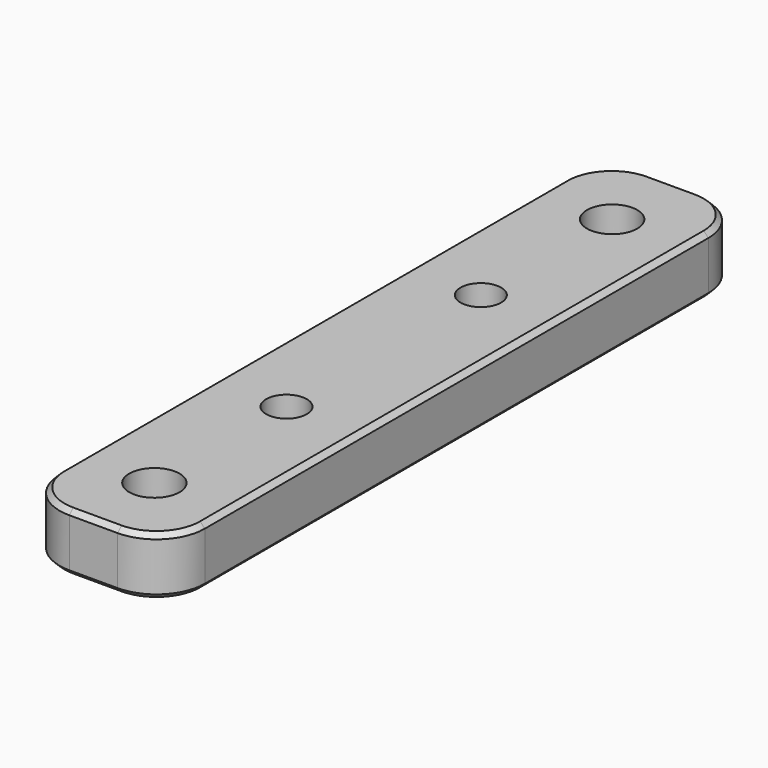
from build123d import *

# Parameters (mm, degrees)
F0_W     = 15
F0_H     = 75
F0_R     = 2.6
F0_R_2   = 2.1
F1_DEPTH = 6
F2_R     = 5
F3_SIZE  = 0.5


with BuildPart() as f1:
    # F0 (on Top) → F1 (new body)
    with BuildSketch(Plane.XY):
        Rectangle(F0_W, F0_H)
        with Locations((-0.0689222117, -29.5514707496)):
            Circle(F0_R, mode=Mode.SUBTRACT)
        with Locations((-0.0689222117, -12.5)):
            Circle(F0_R_2, mode=Mode.SUBTRACT)
        with Locations((0, 12.5)):
            Circle(F0_R_2, mode=Mode.SUBTRACT)
        with Locations((0, 29.4484889938)):
            Circle(F0_R, mode=Mode.SUBTRACT)
    extrude(amount=F1_DEPTH)

    # F2
    f2_edges = [f1.edges().sort_by_distance(p)[0] for p in [
        (-7.5, 37.5, 3),
        (7.5, 37.5, 3),
        (-7.5, -37.5, 3),
        (7.5, -37.5, 3),
    ]]
    fillet(f2_edges, radius=F2_R)

    # F3
    f3_edges = [f1.edges().sort_by_distance(p)[0] for p in [
        (-7.5, 0, 6),
        (7.5, 0, 6),
        (6.035534, 36.035534, 6),
        (0, 37.5, 6),
        (-6.035534, 36.035534, 6),
        (-6.035534, -36.035534, 6),
        (0, -37.5, 6),
        (6.035534, -36.035534, 6),
        (-6.035534, 36.035534, 0),
        (0, 37.5, 0),
        (6.035534, 36.035534, 0),
        (7.5, 0, 0),
        (-7.5, 0, 0),
        (-6.035534, -36.035534, 0),
        (0, -37.5, 0),
        (6.035534, -36.035534, 0),
    ]]
    chamfer(f3_edges, length=F3_SIZE)


solid = f1.part
